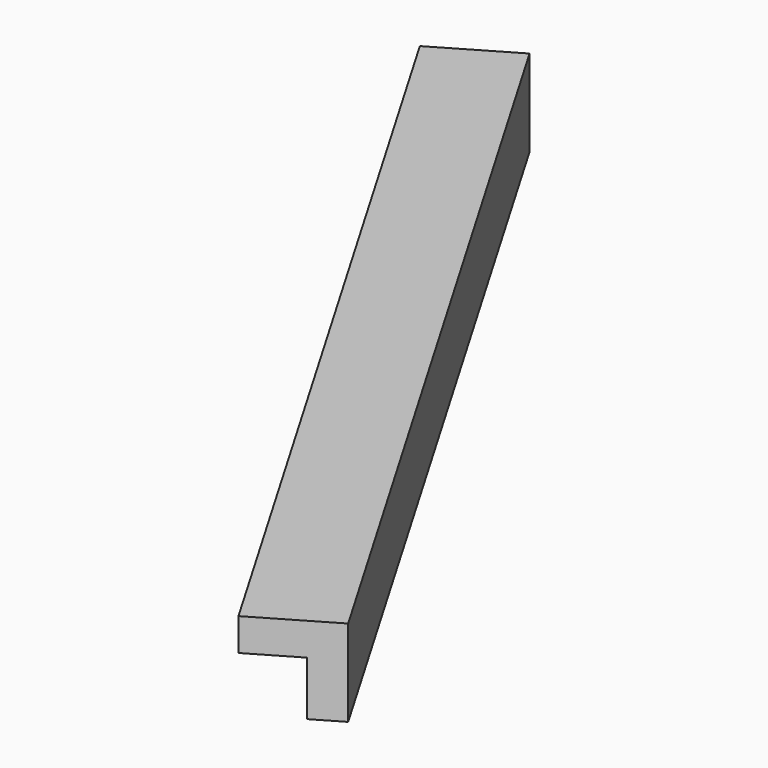
from build123d import *

# Parameters (mm, degrees)
BOX143_W               = 0.8
BOX143_H               = 9
BOX143_DEPTH           = 0.8
BOX144_W               = 0.8
BOX144_H               = 9
BOX144_DEPTH           = 0.8
CUT075_PLACEMENT_ANGLE = 30.3


with BuildPart() as cubo143:
    # Box143 → Box143 (new body)
    with BuildSketch(Plane.XY):
        with Locations((0.4, 4.5)):
            Rectangle(BOX143_W, BOX143_H)
    extrude(amount=BOX143_DEPTH)


with BuildPart() as obj1:
    # Box144 → Box144 (new body)
    with BuildSketch(Plane(origin=(0.3, 0, 0.3), x_dir=(1, 0, 0), z_dir=(0, 0, 1))):
        with Locations((0.4, 4.5)):
            Rectangle(BOX144_W, BOX144_H)
    extrude(amount=BOX144_DEPTH)

    # Cut075: cut Cubo143
    add(cubo143.part, mode=Mode.SUBTRACT)


with BuildPart() as obj1_1:
    # Cut075 placement: moved
    add(obj1.part.moved(Location((-113.6, 195, -1.45))).rotate(Axis((-113.6, 195, -1.45), (0, 0, 1)), CUT075_PLACEMENT_ANGLE))


solid = obj1_1.part
